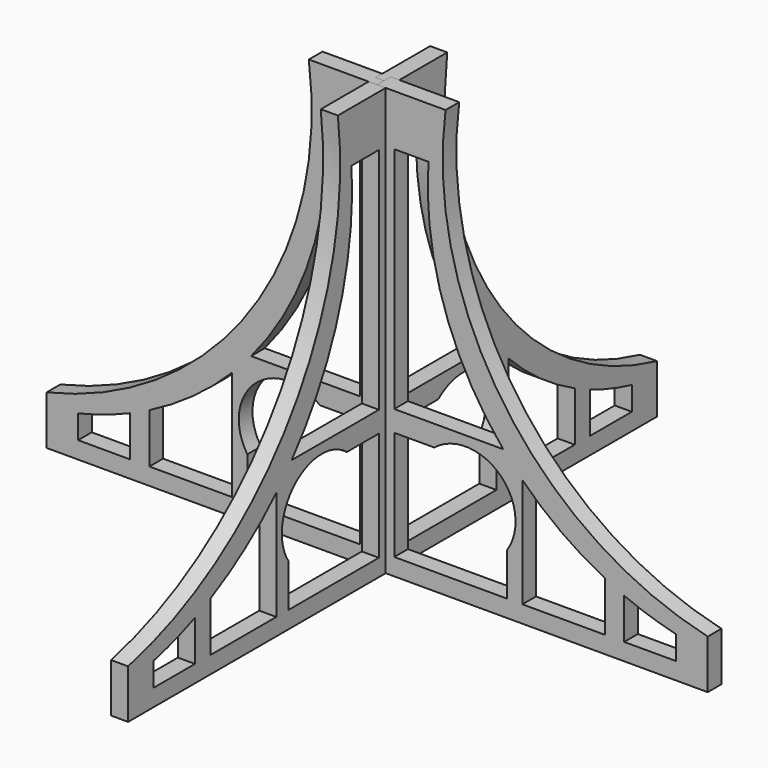
from build123d import *

# Parameters (mm, degrees)
F1_DEPTH      = 1
F1_DEPTH_BACK = 1
F3_COUNT      = 4
F3_ANGLE      = 270


with BuildPart() as f1:
    # F0 (on Right) → F1 (new body, two sides)
    with BuildSketch(Plane.YZ) as f1_sk:
        with BuildLine():
            Line((0, 50), (-8, 50))
            ThreePointArc((-8, 50), (-14.81182, 21.951757), (-38.684483, 5.728294))
            Line((-38.684483, 5.728294), (-38.684483, 0))
            Line((-38.684483, 0), (0, 0))
            Line((0, 0), (0, 50))
        make_face()
        with BuildLine():
            Line((-28.905805, 6.765007), (-28.905805, 2))
            Line((-28.905805, 2), (-35, 2))
            Line((-35, 2), (-35, 4.764703))
            ThreePointArc((-35, 4.764703), (-31.910367, 5.635266), (-28.905805, 6.765007))
        make_face(mode=Mode.SUBTRACT)
        with BuildLine():
            Line((-16.997391, 14.798335), (-16.997391, 2))
            Line((-16.997391, 2), (-26.656431, 2))
            Line((-26.656431, 2), (-26.656431, 7.810252))
            ThreePointArc((-26.656431, 7.810252), (-21.549474, 10.920816), (-16.997391, 14.798335))
        make_face(mode=Mode.SUBTRACT)
        with BuildLine():
            Line((-6.679453, 14.798335), (-2, 14.798335))
            Line((-2, 14.798335), (-2, 2))
            Line((-2, 2), (-9.094121, 2))
            Line((-9.094121, 2), (-12.030224, 2))
            Line((-12.030224, 2), (-15.190238, 2))
            Line((-15.190238, 2), (-15.190238, 6.985855))
            ThreePointArc((-15.190238, 6.985855), (-14.303243, 14.561571), (-6.679453, 14.798335))
        make_face(mode=Mode.SUBTRACT)
        with BuildLine():
            Line((-6, 44.017919), (-2, 44.017919))
            Line((-2, 44.017919), (-2, 17.246349))
            Line((-2, 17.246349), (-14.752971, 17.246349))
            ThreePointArc((-14.752971, 17.246349), (-7.787792, 29.78576), (-6, 44.017919))
        make_face(mode=Mode.SUBTRACT)
    extrude(amount=F1_DEPTH)
    extrude(f1_sk.sketch, amount=-F1_DEPTH_BACK)


with BuildPart() as f3_1:
    # F3: instance of F1
    add(f1.part.rotate(Axis((0, 0, 26.259066), (0, 0, -1)), 1 * F3_ANGLE / (F3_COUNT - 1)))


with BuildPart() as f3_2:
    # F3: instance of F1
    add(f1.part.rotate(Axis((0, 0, 26.259066), (0, 0, -1)), 2 * F3_ANGLE / (F3_COUNT - 1)))


with BuildPart() as f3_3:
    # F3: instance of F1
    add(f1.part.rotate(Axis((0, 0, 26.259066), (0, 0, -1)), 3 * F3_ANGLE / (F3_COUNT - 1)))


solid = Compound([f1.part, f3_1.part, f3_2.part, f3_3.part])
